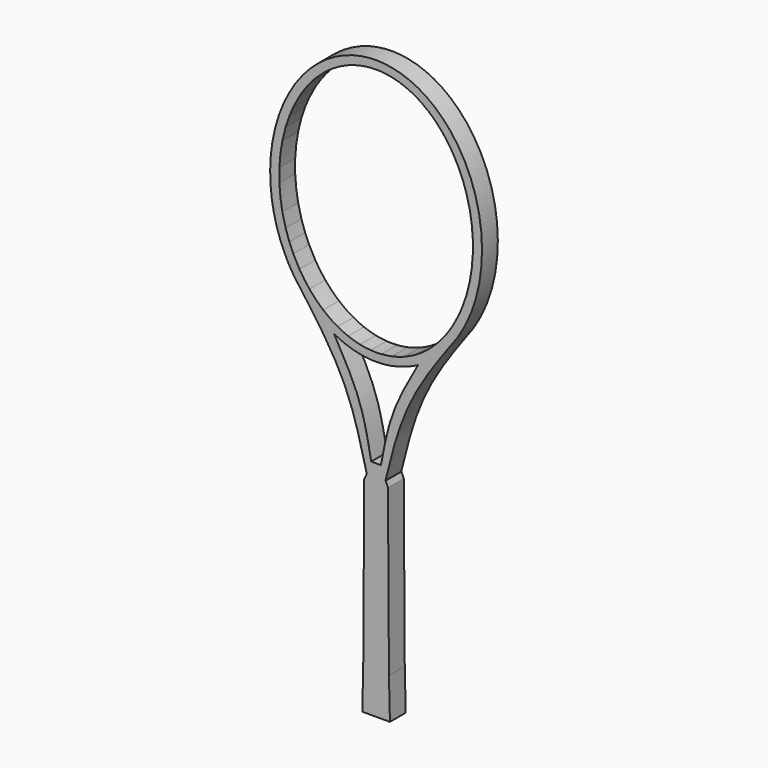
from build123d import *

# Parameters (mm, degrees)
F1_DEPTH = 25


with BuildPart() as f1:
    # F0 (on Front) → F1 (new body)
    with BuildSketch(Plane.XZ):
        with BuildLine():
            add(Edge.make_bspline(
                [(-53.0576736493, -154.2695060361), (-27.6591145179, -168), (0, -168)],
                knots=[5.8760800982, 5.8760800982, 5.8760800982, 6.2831853072, 6.2831853072, 6.2831853072], degree=2, weights=[1, 0.9793546011, 1]))
            Line((0, -168), (0, -157.5))
            add(Edge.make_bspline(
                [(-6.6716127747, -157.2662441707), (-3.3382836676, -157.5), (0, -157.5)],
                knots=[6.2286962025, 6.2286962025, 6.2286962025, 6.2831853072, 6.2831853072, 6.2831853072], degree=2, weights=[1, 0.9996288901, 1]))
            add(Edge.make_bspline(
                [(-20.3253051786, -155.3169037886), (-13.5410327592, -156.7845134702), (-6.6716127747, -157.2662441707)],
                knots=[6.1164935671, 6.1164935671, 6.1164935671, 6.2286962025, 6.2286962025, 6.2286962025], degree=2, weights=[1, 0.9984267338, 1]))
            add(Edge.make_bspline(
                [(-35.3485955017, -150.8002375411), (-27.9477824027, -153.6679692116), (-20.3253051786, -155.3169037886)],
                knots=[5.9904628258, 5.9904628258, 5.9904628258, 6.1164935671, 6.1164935671, 6.1164935671], degree=2, weights=[1, 0.9980151885, 1]))
            add(Edge.make_bspline(
                [(-48.6306342573, -144.5574685771), (-42.1299814547, -148.172526909), (-35.3485955017, -150.8002375411)],
                knots=[5.8749559948, 5.8749559948, 5.8749559948, 5.9904628258, 5.9904628258, 5.9904628258], degree=2, weights=[1, 0.998332735, 1]))
            add(Edge.make_bspline(
                [(-66.8280577081, -131.9988494802), (-58.1425249534, -139.267839865), (-48.6306342573, -144.5574685771)],
                knots=[5.7061577704, 5.7061577704, 5.7061577704, 5.8749559948, 5.8749559948, 5.8749559948], degree=2, weights=[1, 0.9964405086, 1]))
            add(Edge.make_bspline(
                [(-84.2753534875, -114.3050964242), (-76.1783868755, -124.173485771), (-66.8280577081, -131.9988494802)],
                knots=[5.5245080525, 5.5245080525, 5.5245080525, 5.7061577704, 5.7061577704, 5.7061577704], degree=2, weights=[1, 0.9958782571, 1]))
            add(Edge.make_bspline(
                [(-96.9163885416, -96.3296375225), (-91.1352607008, -105.9444055005), (-84.2753534875, -114.3050964242)],
                knots=[5.3704914896, 5.3704914896, 5.3704914896, 5.5245080525, 5.5245080525, 5.5245080525], degree=2, weights=[1, 0.9970363273, 1]))
            add(Edge.make_bspline(
                [(-104.7462592392, -81.665340637), (-101.1538598116, -89.2821713195), (-96.9163885416, -96.3296375225)],
                knots=[5.2574965805, 5.2574965805, 5.2574965805, 5.3704914896, 5.3704914896, 5.3704914896], degree=2, weights=[1, 0.9984044433, 1]))
            add(Edge.make_bspline(
                [(-109.742540682, -69.9837890758), (-107.436832055, -75.9606193248), (-104.7462592392, -81.665340637)],
                knots=[5.1728280772, 5.1728280772, 5.1728280772, 5.2574965805, 5.2574965805, 5.2574965805], degree=2, weights=[1, 0.9991040394, 1]))
            add(Edge.make_bspline(
                [(-114.4470371602, -56.1626974223), (-112.3525102371, -63.2182572984), (-109.742540682, -69.9837890758)],
                knots=[5.0770028294, 5.0770028294, 5.0770028294, 5.1728280772, 5.1728280772, 5.1728280772], degree=2, weights=[1, 0.9988524098, 1]))
            add(Edge.make_bspline(
                [(-118.5862807114, -39.4934937007), (-116.8773145985, -47.9761385423), (-114.4470371602, -56.1626974223)],
                knots=[4.965846328, 4.965846328, 4.965846328, 5.0770028294, 5.0770028294, 5.0770028294], degree=2, weights=[1, 0.9984559265, 1]))
            add(Edge.make_bspline(
                [(-121.3912090482, -21.1430374658), (-120.4131731386, -30.4255083808), (-118.5862807114, -39.4934937007)],
                knots=[4.8470369827, 4.8470369827, 4.8470369827, 4.965846328, 4.965846328, 4.965846328], degree=2, weights=[1, 0.9982360613, 1]))
            add(Edge.make_bspline(
                [(-122.3098601503, -8.7719368283), (-122.0404850422, -14.9808040846), (-121.3912090482, -21.1430374658)],
                knots=[4.7681126511, 4.7681126511, 4.7681126511, 4.8470369827, 4.8470369827, 4.8470369827], degree=2, weights=[1, 0.9992214698, 1]))
            add(Edge.make_bspline(
                [(-122.5, 0), (-122.5, -4.3893749247), (-122.3098601503, -8.7719368283)],
                knots=[4.7123889804, 4.7123889804, 4.7123889804, 4.7681126511, 4.7681126511, 4.7681126511], degree=2, weights=[1, 0.9996118842, 1]))
            add(Edge.make_bspline(
                [(-122.3098601503, 8.7719368283), (-122.5, 4.3893749247), (-122.5, 0)],
                knots=[4.6566653097, 4.6566653097, 4.6566653097, 4.7123889804, 4.7123889804, 4.7123889804], degree=2, weights=[1, 0.9996118842, 1]))
            add(Edge.make_bspline(
                [(-121.3912090482, 21.1430374658), (-122.0404850422, 14.9808040846), (-122.3098601503, 8.7719368283)],
                knots=[4.5777409781, 4.5777409781, 4.5777409781, 4.6566653097, 4.6566653097, 4.6566653097], degree=2, weights=[1, 0.9992214698, 1]))
            add(Edge.make_bspline(
                [(-118.5862807114, 39.4934937007), (-120.4131731386, 30.4255083808), (-121.3912090482, 21.1430374658)],
                knots=[4.4589316328, 4.4589316328, 4.4589316328, 4.5777409781, 4.5777409781, 4.5777409781], degree=2, weights=[1, 0.9982360613, 1]))
            add(Edge.make_bspline(
                [(-114.4470371602, 56.1626974223), (-116.8773145985, 47.9761385423), (-118.5862807114, 39.4934937007)],
                knots=[4.3477751314, 4.3477751314, 4.3477751314, 4.4589316328, 4.4589316328, 4.4589316328], degree=2, weights=[1, 0.9984559265, 1]))
            add(Edge.make_bspline(
                [(-109.742540682, 69.9837890758), (-112.3525102371, 63.2182572984), (-114.4470371602, 56.1626974223)],
                knots=[4.2519498836, 4.2519498836, 4.2519498836, 4.3477751314, 4.3477751314, 4.3477751314], degree=2, weights=[1, 0.9988524098, 1]))
            add(Edge.make_bspline(
                [(-104.7462592392, 81.665340637), (-107.436832055, 75.9606193248), (-109.742540682, 69.9837890758)],
                knots=[4.1672813803, 4.1672813803, 4.1672813803, 4.2519498836, 4.2519498836, 4.2519498836], degree=2, weights=[1, 0.9991040394, 1]))
            add(Edge.make_bspline(
                [(-96.9163885416, 96.3296375225), (-101.1538598116, 89.2821713195), (-104.7462592392, 81.665340637)],
                knots=[4.0542864711, 4.0542864711, 4.0542864711, 4.1672813803, 4.1672813803, 4.1672813803], degree=2, weights=[1, 0.9984044433, 1]))
            add(Edge.make_bspline(
                [(-84.2753534875, 114.3050964242), (-91.1352607008, 105.9444055005), (-96.9163885416, 96.3296375225)],
                knots=[3.9002699083, 3.9002699083, 3.9002699083, 4.0542864711, 4.0542864711, 4.0542864711], degree=2, weights=[1, 0.9970363273, 1]))
            add(Edge.make_bspline(
                [(-66.8280577081, 131.9988494802), (-76.1783868755, 124.173485771), (-84.2753534875, 114.3050964242)],
                knots=[3.7186201904, 3.7186201904, 3.7186201904, 3.9002699083, 3.9002699083, 3.9002699083], degree=2, weights=[1, 0.9958782571, 1]))
            add(Edge.make_bspline(
                [(-48.6306342573, 144.5574685771), (-58.1425249534, 139.267839865), (-66.8280577081, 131.9988494802)],
                knots=[3.549821966, 3.549821966, 3.549821966, 3.7186201904, 3.7186201904, 3.7186201904], degree=2, weights=[1, 0.9964405086, 1]))
            add(Edge.make_bspline(
                [(-35.3485955017, 150.8002375411), (-42.1299814547, 148.172526909), (-48.6306342573, 144.5574685771)],
                knots=[3.434315135, 3.434315135, 3.434315135, 3.549821966, 3.549821966, 3.549821966], degree=2, weights=[1, 0.998332735, 1]))
            add(Edge.make_bspline(
                [(-20.3253051786, 155.3169037886), (-27.9477824027, 153.6679692116), (-35.3485955017, 150.8002375411)],
                knots=[3.3082843937, 3.3082843937, 3.3082843937, 3.434315135, 3.434315135, 3.434315135], degree=2, weights=[1, 0.9980151885, 1]))
            add(Edge.make_bspline(
                [(-6.6716127747, 157.2662441707), (-13.5410327592, 156.7845134702), (-20.3253051786, 155.3169037886)],
                knots=[3.1960817583, 3.1960817583, 3.1960817583, 3.3082843937, 3.3082843937, 3.3082843937], degree=2, weights=[1, 0.9984267338, 1]))
            add(Edge.make_bspline(
                [(0, 157.5), (-3.3382836676, 157.5), (-6.6716127747, 157.2662441707)],
                knots=[3.1415926536, 3.1415926536, 3.1415926536, 3.1960817583, 3.1960817583, 3.1960817583], degree=2, weights=[1, 0.9996288901, 1]))
            Line((0, 157.5), (0, 168))
            add(Edge.make_bspline(
                [(0, 168), (-286.9808778974, 168), (-102.7379507616, -107.8567045498)],
                knots=[3.1415926536, 3.1415926536, 3.1415926536, 5.4094984425, 5.4094984425, 5.4094984425], degree=2, weights=[1, 0.4230814379, 1]))
            add(Edge.make_bspline(
                [(-93.9434986956, -119.7993868104), (-96.8643366205, -115.8160114786), (-99.801143691, -111.8363580142), (-102.7379507616, -107.8567045498)],
                knots=[0.9333248656, 0.9333248656, 0.9333248656, 0.9333248656, 1, 1, 1, 1], degree=3))
            add(Edge.make_bspline(
                [(-93.9434986956, -119.7993868103), (-76.0717266791, -141.8280791593), (-53.0576736493, -154.2695060361)],
                knots=[5.5062871663, 5.5062871663, 5.5062871663, 5.8760800982, 5.8760800982, 5.8760800982], degree=2, weights=[1, 0.9829552901, 1]))
        make_face()
        with BuildLine():
            Line((0, -157.5), (0, -168))
            add(Edge.make_bspline(
                [(0, -168), (27.6591145179, -168), (53.0576736493, -154.2695060361)],
                knots=[0, 0, 0, 0.407105209, 0.407105209, 0.407105209], degree=2, weights=[1, 0.9793546011, 1]))
            add(Edge.make_bspline(
                [(53.0576736493, -154.2695060361), (76.0717266791, -141.8280791593), (93.9434986956, -119.7993868103)],
                knots=[0.407105209, 0.407105209, 0.407105209, 0.7768981409, 0.7768981409, 0.7768981409], degree=2, weights=[1, 0.9829552901, 1]))
            add(Edge.make_bspline(
                [(93.9434986956, -119.7993868103), (96.8643366205, -115.8160114786), (99.801143691, -111.8363580142), (102.7379507616, -107.8567045498)],
                knots=[0.9333248656, 0.9333248656, 0.9333248656, 0.9333248656, 1, 1, 1, 1], degree=3))
            add(Edge.make_bspline(
                [(102.7379507616, -107.8567045498), (286.9808778974, 168), (0, 168)],
                knots=[0.8736868646, 0.8736868646, 0.8736868646, 3.1415926536, 3.1415926536, 3.1415926536], degree=2, weights=[1, 0.4230814379, 1]))
            Line((0, 168), (0, 157.5))
            add(Edge.make_bspline(
                [(6.6716127747, 157.2662441707), (3.3382836676, 157.5), (0, 157.5)],
                knots=[3.0871035489, 3.0871035489, 3.0871035489, 3.1415926536, 3.1415926536, 3.1415926536], degree=2, weights=[1, 0.9996288901, 1]))
            add(Edge.make_bspline(
                [(20.3253051786, 155.3169037886), (13.5410327592, 156.7845134702), (6.6716127747, 157.2662441707)],
                knots=[2.9749009135, 2.9749009135, 2.9749009135, 3.0871035489, 3.0871035489, 3.0871035489], degree=2, weights=[1, 0.9984267338, 1]))
            add(Edge.make_bspline(
                [(35.3485955017, 150.8002375411), (27.9477824027, 153.6679692116), (20.3253051786, 155.3169037886)],
                knots=[2.8488701722, 2.8488701722, 2.8488701722, 2.9749009135, 2.9749009135, 2.9749009135], degree=2, weights=[1, 0.9980151885, 1]))
            add(Edge.make_bspline(
                [(48.6306342573, 144.5574685771), (42.1299814547, 148.172526909), (35.3485955017, 150.8002375411)],
                knots=[2.7333633412, 2.7333633412, 2.7333633412, 2.8488701722, 2.8488701722, 2.8488701722], degree=2, weights=[1, 0.998332735, 1]))
            add(Edge.make_bspline(
                [(66.8280577081, 131.9988494802), (58.1425249534, 139.267839865), (48.6306342573, 144.5574685771)],
                knots=[2.5645651168, 2.5645651168, 2.5645651168, 2.7333633412, 2.7333633412, 2.7333633412], degree=2, weights=[1, 0.9964405086, 1]))
            add(Edge.make_bspline(
                [(84.2753534875, 114.3050964242), (76.1783868755, 124.173485771), (66.8280577081, 131.9988494802)],
                knots=[2.3829153989, 2.3829153989, 2.3829153989, 2.5645651168, 2.5645651168, 2.5645651168], degree=2, weights=[1, 0.9958782571, 1]))
            add(Edge.make_bspline(
                [(96.9163885416, 96.3296375225), (91.1352607008, 105.9444055005), (84.2753534875, 114.3050964242)],
                knots=[2.2288988361, 2.2288988361, 2.2288988361, 2.3829153989, 2.3829153989, 2.3829153989], degree=2, weights=[1, 0.9970363273, 1]))
            add(Edge.make_bspline(
                [(104.7462592392, 81.665340637), (101.1538598116, 89.2821713195), (96.9163885416, 96.3296375225)],
                knots=[2.1159039269, 2.1159039269, 2.1159039269, 2.2288988361, 2.2288988361, 2.2288988361], degree=2, weights=[1, 0.9984044433, 1]))
            add(Edge.make_bspline(
                [(109.742540682, 69.9837890758), (107.436832055, 75.9606193248), (104.7462592392, 81.665340637)],
                knots=[2.0312354236, 2.0312354236, 2.0312354236, 2.1159039269, 2.1159039269, 2.1159039269], degree=2, weights=[1, 0.9991040394, 1]))
            add(Edge.make_bspline(
                [(114.4470371602, 56.1626974223), (112.3525102371, 63.2182572984), (109.742540682, 69.9837890758)],
                knots=[1.9354101758, 1.9354101758, 1.9354101758, 2.0312354236, 2.0312354236, 2.0312354236], degree=2, weights=[1, 0.9988524098, 1]))
            add(Edge.make_bspline(
                [(118.5862807114, 39.4934937007), (116.8773145985, 47.9761385423), (114.4470371602, 56.1626974223)],
                knots=[1.8242536744, 1.8242536744, 1.8242536744, 1.9354101758, 1.9354101758, 1.9354101758], degree=2, weights=[1, 0.9984559265, 1]))
            add(Edge.make_bspline(
                [(121.3912090482, 21.1430374658), (120.4131731386, 30.4255083808), (118.5862807114, 39.4934937007)],
                knots=[1.7054443291, 1.7054443291, 1.7054443291, 1.8242536744, 1.8242536744, 1.8242536744], degree=2, weights=[1, 0.9982360613, 1]))
            add(Edge.make_bspline(
                [(122.3098601503, 8.7719368283), (122.0404850422, 14.9808040846), (121.3912090482, 21.1430374658)],
                knots=[1.6265199975, 1.6265199975, 1.6265199975, 1.7054443291, 1.7054443291, 1.7054443291], degree=2, weights=[1, 0.9992214698, 1]))
            add(Edge.make_bspline(
                [(122.5, 0), (122.5, 4.3893749247), (122.3098601503, 8.7719368283)],
                knots=[1.5707963268, 1.5707963268, 1.5707963268, 1.6265199975, 1.6265199975, 1.6265199975], degree=2, weights=[1, 0.9996118842, 1]))
            add(Edge.make_bspline(
                [(122.3098601503, -8.7719368283), (122.5, -4.3893749247), (122.5, 0)],
                knots=[1.5150726561, 1.5150726561, 1.5150726561, 1.5707963268, 1.5707963268, 1.5707963268], degree=2, weights=[1, 0.9996118842, 1]))
            add(Edge.make_bspline(
                [(121.3912090482, -21.1430374658), (122.0404850422, -14.9808040846), (122.3098601503, -8.7719368283)],
                knots=[1.4361483245, 1.4361483245, 1.4361483245, 1.5150726561, 1.5150726561, 1.5150726561], degree=2, weights=[1, 0.9992214698, 1]))
            add(Edge.make_bspline(
                [(118.5862807114, -39.4934937007), (120.4131731386, -30.4255083808), (121.3912090482, -21.1430374658)],
                knots=[1.3173389792, 1.3173389792, 1.3173389792, 1.4361483245, 1.4361483245, 1.4361483245], degree=2, weights=[1, 0.9982360613, 1]))
            add(Edge.make_bspline(
                [(114.4470371602, -56.1626974223), (116.8773145985, -47.9761385423), (118.5862807114, -39.4934937007)],
                knots=[1.2061824778, 1.2061824778, 1.2061824778, 1.3173389792, 1.3173389792, 1.3173389792], degree=2, weights=[1, 0.9984559265, 1]))
            add(Edge.make_bspline(
                [(109.742540682, -69.9837890758), (112.3525102371, -63.2182572984), (114.4470371602, -56.1626974223)],
                knots=[1.11035723, 1.11035723, 1.11035723, 1.2061824778, 1.2061824778, 1.2061824778], degree=2, weights=[1, 0.9988524098, 1]))
            add(Edge.make_bspline(
                [(104.7462592392, -81.665340637), (107.436832055, -75.9606193248), (109.742540682, -69.9837890758)],
                knots=[1.0256887267, 1.0256887267, 1.0256887267, 1.11035723, 1.11035723, 1.11035723], degree=2, weights=[1, 0.9991040394, 1]))
            add(Edge.make_bspline(
                [(96.9163885416, -96.3296375225), (101.1538598116, -89.2821713195), (104.7462592392, -81.665340637)],
                knots=[0.9126938175, 0.9126938175, 0.9126938175, 1.0256887267, 1.0256887267, 1.0256887267], degree=2, weights=[1, 0.9984044433, 1]))
            add(Edge.make_bspline(
                [(84.2753534875, -114.3050964242), (91.1352607008, -105.9444055005), (96.9163885416, -96.3296375225)],
                knots=[0.7586772547, 0.7586772547, 0.7586772547, 0.9126938175, 0.9126938175, 0.9126938175], degree=2, weights=[1, 0.9970363273, 1]))
            add(Edge.make_bspline(
                [(66.8280577081, -131.9988494802), (76.1783868755, -124.173485771), (84.2753534875, -114.3050964242)],
                knots=[0.5770275368, 0.5770275368, 0.5770275368, 0.7586772547, 0.7586772547, 0.7586772547], degree=2, weights=[1, 0.9958782571, 1]))
            add(Edge.make_bspline(
                [(48.6306342573, -144.5574685771), (58.1425249534, -139.267839865), (66.8280577081, -131.9988494802)],
                knots=[0.4082293124, 0.4082293124, 0.4082293124, 0.5770275368, 0.5770275368, 0.5770275368], degree=2, weights=[1, 0.9964405086, 1]))
            add(Edge.make_bspline(
                [(35.3485955017, -150.8002375411), (42.1299814547, -148.172526909), (48.6306342573, -144.5574685771)],
                knots=[0.2927224814, 0.2927224814, 0.2927224814, 0.4082293124, 0.4082293124, 0.4082293124], degree=2, weights=[1, 0.998332735, 1]))
            add(Edge.make_bspline(
                [(20.3253051786, -155.3169037886), (27.9477824027, -153.6679692116), (35.3485955017, -150.8002375411)],
                knots=[0.1666917401, 0.1666917401, 0.1666917401, 0.2927224814, 0.2927224814, 0.2927224814], degree=2, weights=[1, 0.9980151885, 1]))
            add(Edge.make_bspline(
                [(6.6716127747, -157.2662441707), (13.5410327592, -156.7845134702), (20.3253051786, -155.3169037886)],
                knots=[0.0544891047, 0.0544891047, 0.0544891047, 0.1666917401, 0.1666917401, 0.1666917401], degree=2, weights=[1, 0.9984267338, 1]))
            add(Edge.make_bspline(
                [(0, -157.5), (3.3382836676, -157.5), (6.6716127747, -157.2662441707)],
                knots=[0, 0, 0, 0.0544891047, 0.0544891047, 0.0544891047], degree=2, weights=[1, 0.9996288901, 1]))
        make_face()
        with BuildLine():
            add(Edge.make_bspline(
                [(53.0576736493, -154.2695060361), (76.0717266791, -141.8280791593), (93.9434986956, -119.7993868103)],
                knots=[0.407105209, 0.407105209, 0.407105209, 0.7768981409, 0.7768981409, 0.7768981409], degree=2, weights=[1, 0.9829552901, 1]))
            add(Edge.make_bspline(
                [(53.0576736493, -154.2695060361), (41.2426865141, -175.201856929), (18.0971581048, -216.2082767175), (10.0918146597, -259.7248553258), (6.1729205772, -281.0277342796)],
                knots=[0, 0, 0, 0, 0.510465215, 1, 1, 1, 1], degree=3))
            Line((6.1729205772, -281.0277342796), (0, -281.0277342796))
            Line((0, -281.0277342796), (0, -296.5133786201))
            Line((0, -296.5133786201), (11.7670362815, -296.5133786201))
            add(Edge.make_bspline(
                [(11.7670362815, -296.5133786201), (19.7004024323, -264.3898527911), (34.9468504595, -202.6544358571), (74.3321187464, -146.5449608963), (93.9434986956, -119.7993868103)],
                knots=[0, 0, 0, 0, 0.4856480594, 0.9333248656, 0.9333248656, 0.9333248656, 0.9333248656], degree=3))
        make_face()
        with BuildLine():
            add(Edge.make_bspline(
                [(-53.0576736493, -154.2695060361), (-41.2426865141, -175.201856929), (-18.0971581048, -216.2082767175), (-10.0918146597, -259.7248553258), (-6.1729205772, -281.0277342796)],
                knots=[0, 0, 0, 0, 0.510465215, 1, 1, 1, 1], degree=3))
            add(Edge.make_bspline(
                [(-93.9434986956, -119.7993868103), (-76.0717266791, -141.8280791593), (-53.0576736493, -154.2695060361)],
                knots=[5.5062871663, 5.5062871663, 5.5062871663, 5.8760800982, 5.8760800982, 5.8760800982], degree=2, weights=[1, 0.9829552901, 1]))
            add(Edge.make_bspline(
                [(-11.7670362815, -296.5133786201), (-19.7004024323, -264.3898527911), (-34.9468504595, -202.6544358571), (-74.3321187464, -146.5449608963), (-93.9434986956, -119.7993868104)],
                knots=[0, 0, 0, 0, 0.4856480594, 0.9333248656, 0.9333248656, 0.9333248656, 0.9333248656], degree=3))
            Line((-11.7670362815, -296.5133786201), (0, -296.5133786201))
            Line((0, -296.5133786201), (0, -281.0277342796))
            Line((0, -281.0277342796), (-6.1729205772, -281.0277342796))
        make_face()
        Polygon((0, -303.2019032958), (0, -296.5133786201), (-11.7670362815, -296.5133786201), (-15.0000000745, -303.2019032958), align=None)
        Polygon((11.7670362815, -296.5133786201), (0, -296.5133786201), (0, -303.2019032958), (14.9999999255, -303.2019032958), (12.0266480371, -296.5133786201), align=None)
        Polygon((14.9999999255, -303.2019032958), (0, -303.2019032958), (0, -563.2926821709), (17.4999999255, -563.2926821709), (16.2712234236, -512.1147317661), align=None)
        Polygon((0, -563.2926821709), (0, -303.2019032958), (-15.0000000745, -303.2019032958), (-16.2712235726, -512.1147317661), (-17.5000000745, -563.2926821709), align=None)
    extrude(amount=F1_DEPTH)


solid = f1.part
